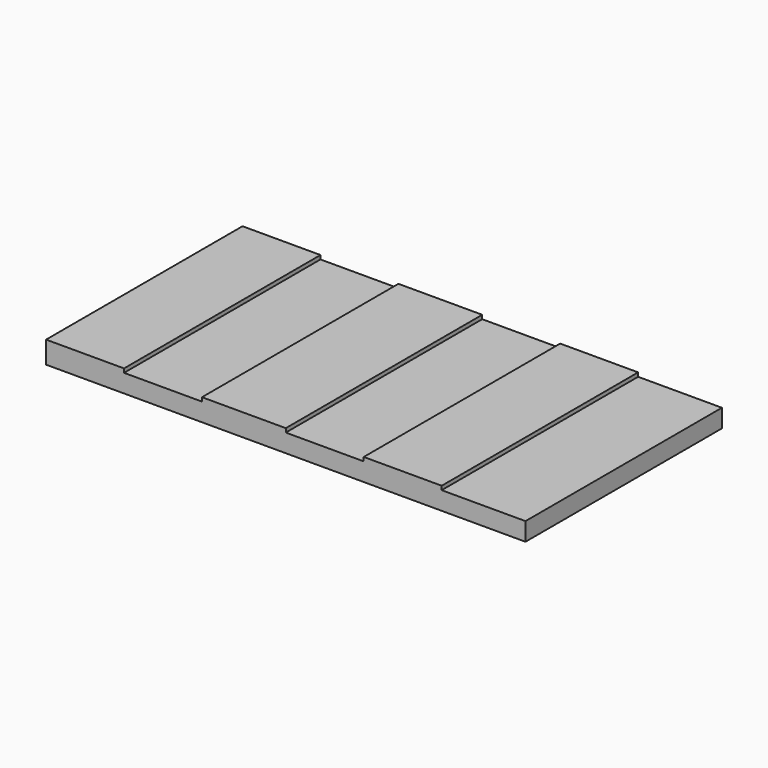
from build123d import *

# Parameters (mm, degrees)
F0_W     = 156.21
F0_H     = 80.01
F1_DEPTH = 8.46582
F2_W     = 25.4
F2_H     = 80.01
F3_DEPTH = 1.27
F4_DEPTH = 2.54
F2_W_2   = 27.305
F5_DEPTH = 1.27
F6_DEPTH = 2.54
F7_DEPTH = 1.27
F8_DEPTH = 2.54


with BuildPart() as f1:
    # F0 (on Top) → F1 (new body)
    with BuildSketch(Plane.XY):
        Rectangle(F0_W, F0_H)
    extrude(amount=F1_DEPTH)

    # F2 (on face) → F3 (cut)
    with BuildSketch(Plane.XY.offset(8.46582)):
        with Locations((-65.405, 0)):
            Rectangle(F2_W, F2_H)
    extrude(amount=-F3_DEPTH, mode=Mode.SUBTRACT)

    # F2 (on face) → F4 (cut)
    with BuildSketch(Plane.XY.offset(8.46582)):
        with Locations((-40.005, 0)):
            Rectangle(F2_W, F2_H)
    extrude(amount=-F4_DEPTH, mode=Mode.SUBTRACT)

    # F2 (on face) → F5 (cut)
    with BuildSketch(Plane.XY.offset(8.46582)):
        with Locations((-13.6525, 0)):
            Rectangle(F2_W_2, F2_H)
    extrude(amount=-F5_DEPTH, mode=Mode.SUBTRACT)

    # F2 (on face) → F6 (cut)
    with BuildSketch(Plane.XY.offset(8.46582)):
        with Locations((12.7, 0)):
            Rectangle(F2_W, F2_H)
    extrude(amount=-F6_DEPTH, mode=Mode.SUBTRACT)

    # F2 (on face) → F7 (cut)
    with BuildSketch(Plane.XY.offset(8.46582)):
        with Locations((38.1, 0)):
            Rectangle(F2_W, F2_H)
    extrude(amount=-F7_DEPTH, mode=Mode.SUBTRACT)

    # F2 (on face) → F8 (cut)
    with BuildSketch(Plane.XY.offset(8.46582)):
        with Locations((64.4525, 0)):
            Rectangle(F2_W_2, F2_H)
    extrude(amount=-F8_DEPTH, mode=Mode.SUBTRACT)


solid = f1.part
